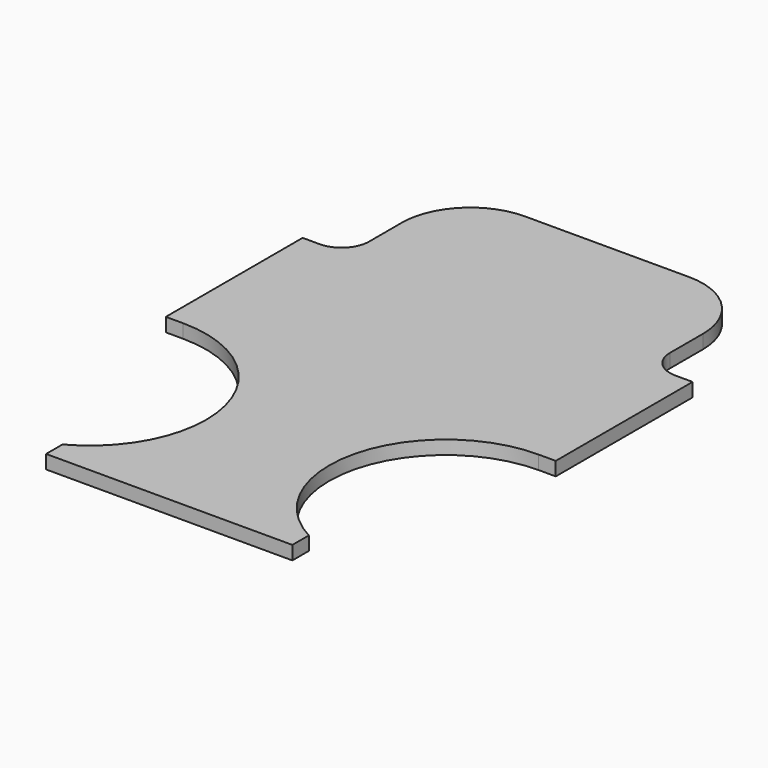
from build123d import *

# Parameters (mm, degrees)
F1_DEPTH = 2


with BuildPart() as f1:
    # F0 (on Top) → F1 (new body)
    with BuildSketch(Plane.XY):
        with BuildLine():
            Line((12, 38), (0, 38))
            Line((0, 38), (-12, 38))
            ThreePointArc((-12, 38), (-19.071081, 35.071055), (-22, 27.999963))
            Line((-22, 27.999963), (-22, 21.999963))
            ThreePointArc((-22, 21.999963), (-23.171507, 19.171602), (-25.999815, 17.999963))
            Line((-25.999815, 17.999963), (-28.499815, 17.999963))
            Line((-28.499815, 17.999963), (-28.499815, -7.000037))
            Line((-28.499815, -7.000037), (-25.999815, -7.000037))
            ThreePointArc((-25.999815, -7.000037), (-9.507625, -19.877017), (-18, -39))
            Line((-18, -39), (-18, -42))
            Line((-18, -42), (0, -42))
            Line((0, -42), (18, -42))
            Line((18, -42), (18, -39))
            ThreePointArc((18, -39), (9.507625, -19.877017), (25.999815, -7.000037))
            Line((25.999815, -7.000037), (28.499815, -7.000037))
            Line((28.499815, -7.000037), (28.499815, 17.999963))
            Line((28.499815, 17.999963), (25.999815, 17.999963))
            ThreePointArc((25.999815, 17.999963), (23.171507, 19.171602), (22, 21.999963))
            Line((22, 21.999963), (22, 27.999963))
            ThreePointArc((22, 27.999963), (19.071081, 35.071055), (12, 38))
        make_face()
        with BuildLine():
            Line((12, 38), (0, 38))
            Line((0, 38), (-12, 38))
            ThreePointArc((-12, 38), (-19.071081, 35.071055), (-22, 27.999963))
            Line((-22, 27.999963), (-22, 21.999963))
            ThreePointArc((-22, 21.999963), (-23.171507, 19.171602), (-25.999815, 17.999963))
            Line((-25.999815, 17.999963), (-28.499815, 17.999963))
            Line((-28.499815, 17.999963), (-28.499815, -7.000037))
            Line((-28.499815, -7.000037), (-25.999815, -7.000037))
            ThreePointArc((-25.999815, -7.000037), (-9.507625, -19.877017), (-18, -39))
            Line((-18, -39), (-18, -42))
            Line((-18, -42), (0, -42))
            Line((0, -42), (18, -42))
            Line((18, -42), (18, -39))
            ThreePointArc((18, -39), (9.507625, -19.877017), (25.999815, -7.000037))
            Line((25.999815, -7.000037), (28.499815, -7.000037))
            Line((28.499815, -7.000037), (28.499815, 17.999963))
            Line((28.499815, 17.999963), (25.999815, 17.999963))
            ThreePointArc((25.999815, 17.999963), (23.171507, 19.171602), (22, 21.999963))
            Line((22, 21.999963), (22, 27.999963))
            ThreePointArc((22, 27.999963), (19.071081, 35.071055), (12, 38))
        make_face()
    extrude(amount=F1_DEPTH)


solid = f1.part
